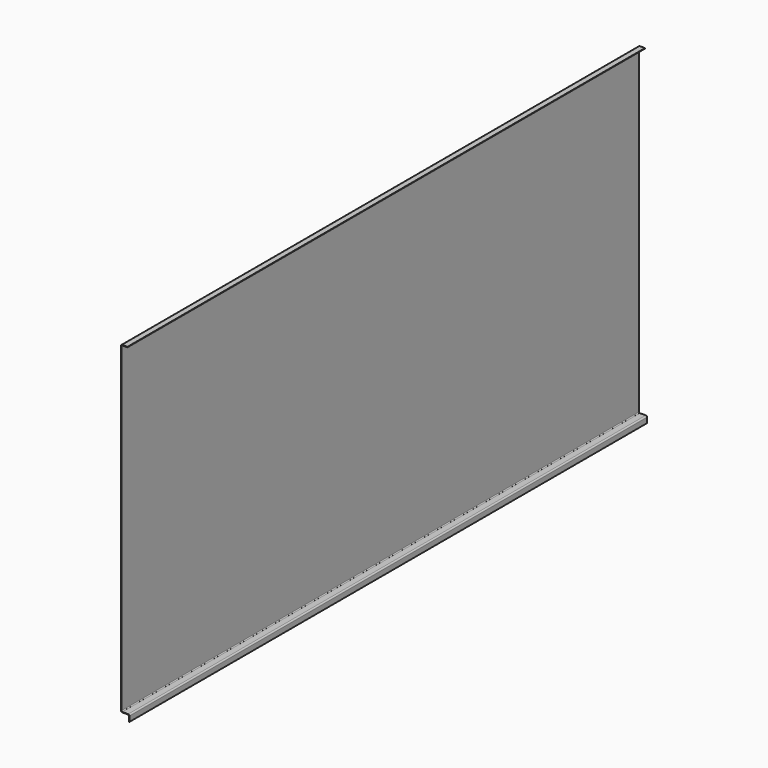
from build123d import *

# Parameters (mm, degrees)
F1_DEPTH = 2000


with BuildPart() as f1:
    # F0 (on Front) → F1 (new body)
    with BuildSketch(Plane.XZ):
        with BuildLine():
            Line((-17.24309, -5.361117), (-15.74309, -5.361117))
            Line((-15.74309, -5.361117), (-15.74309, 10.638883))
            ThreePointArc((-15.74309, 10.638883), (-16.914663, 13.46731), (-19.74309, 14.638883))
            Line((-19.74309, 14.638883), (-38.24309, 14.638883))
            ThreePointArc((-38.24309, 14.638883), (-40.010857, 15.371116), (-40.74309, 17.138883))
            Line((-40.74309, 17.138883), (-40.74309, 1009.138883))
            ThreePointArc((-40.74309, 1009.138883), (-40.010857, 1010.90665), (-38.24309, 1011.638883))
            Line((-38.24309, 1011.638883), (-22.24309, 1011.638883))
            Line((-22.24309, 1011.638883), (-22.24309, 1013.138883))
            Line((-22.24309, 1013.138883), (-38.24309, 1013.138883))
            ThreePointArc((-38.24309, 1013.138883), (-41.071517, 1011.96731), (-42.24309, 1009.138883))
            Line((-42.24309, 1009.138883), (-42.24309, 17.138883))
            ThreePointArc((-42.24309, 17.138883), (-41.071517, 14.310456), (-38.24309, 13.138883))
            Line((-38.24309, 13.138883), (-19.74309, 13.138883))
            ThreePointArc((-19.74309, 13.138883), (-17.975323, 12.40665), (-17.24309, 10.638883))
            Line((-17.24309, 10.638883), (-17.24309, -5.361117))
        make_face()
    extrude(amount=F1_DEPTH)


solid = f1.part
